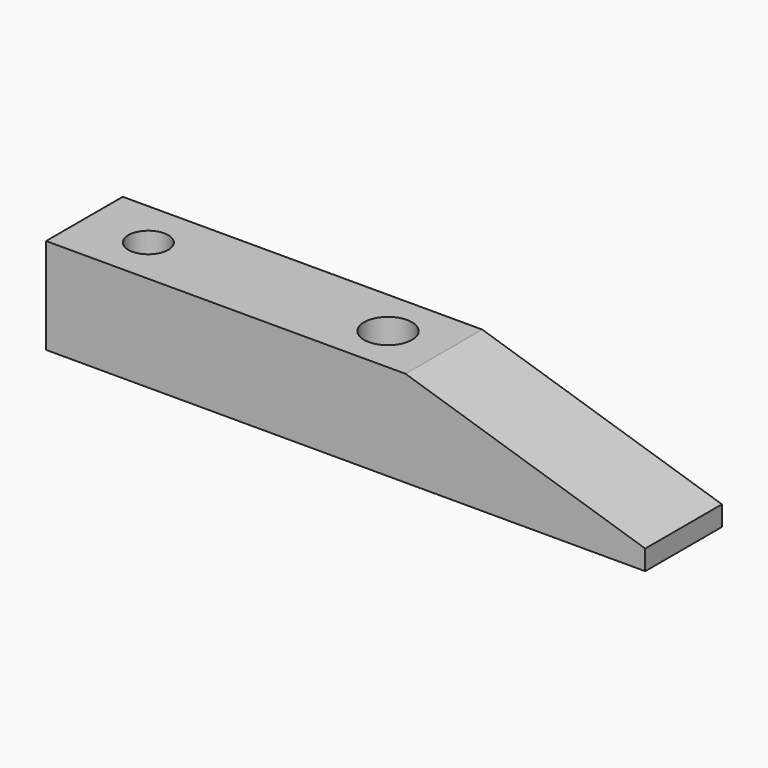
from build123d import *

# Parameters (mm, degrees)
F1_DEPTH = 12
F2_R     = 2.5
F2_R_2   = 3
F3_DEPTH = 25


with BuildPart() as f1:
    # F0 (on Front) → F1 (new body)
    with BuildSketch(Plane.XZ):
        Polygon((20.467626, 11.379912), (-24.532374, 11.379912), (-24.532374, -0.620088), (50.467626, -0.620088), (50.467626, 1.879912), align=None)
    extrude(amount=F1_DEPTH)

    # F2 (on face) → F3 (cut)
    with BuildSketch(Plane.XY.offset(11.379912)):
        with Locations((-16.532374, -6)):
            Circle(F2_R)
        with Locations((13.467626, -6)):
            Circle(F2_R_2)
    extrude(amount=-F3_DEPTH, mode=Mode.SUBTRACT)


solid = f1.part
